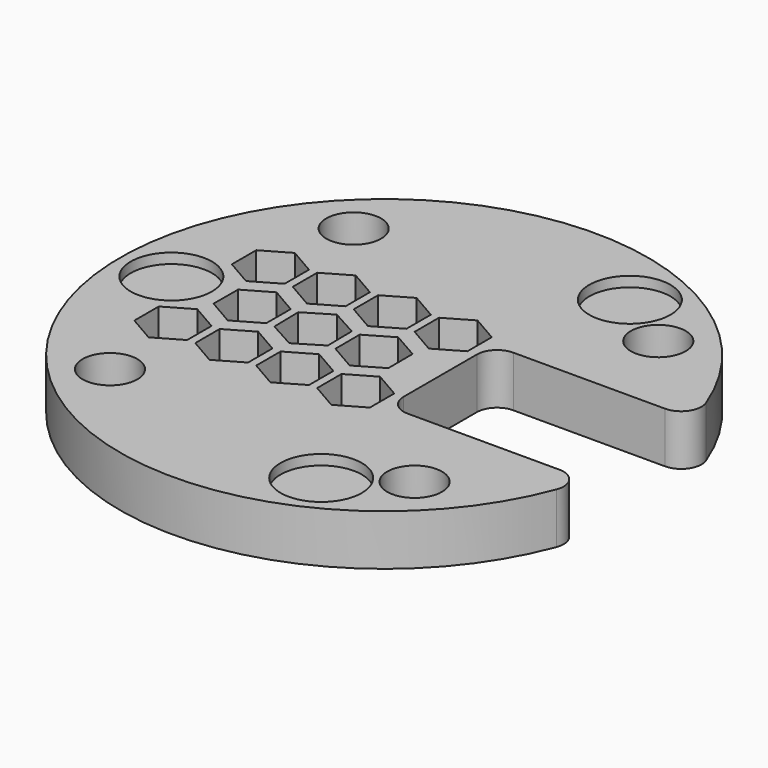
from build123d import *

# Parameters (mm, degrees)
SKETCH_R        = 25.999973
PAD_DEPTH       = 5
SKETCH001_R     = 1.5
POCKET_DEPTH    = 5.001
SKETCH002_W     = 20.5
SKETCH002_H     = 13.007144
POCKET001_DEPTH = 5
FILLET_R        = 2
POCKET002_DEPTH = 5
SKETCH004_R     = 4.000249
SKETCH004_R_2   = 4
POCKET003_DEPTH = 1
SKETCH005_R     = 2.7
POCKET004_DEPTH = 3


with BuildPart() as part:
    # Sketch → Pad (new body)
    with BuildSketch(Plane.XY):
        Circle(SKETCH_R)
    extrude(amount=PAD_DEPTH)

    # Sketch001 (on Face3 of Pad) → Pocket (cut, through all)
    with BuildSketch(Plane.XY.offset(5)):
        with Locations((-15, 15)):
            Circle(SKETCH001_R)
        with Locations((15, 15)):
            Circle(SKETCH001_R)
        with Locations((15, -15)):
            Circle(SKETCH001_R)
        with Locations((-15, -15)):
            Circle(SKETCH001_R)
    extrude(amount=-POCKET_DEPTH, mode=Mode.SUBTRACT)

    # Sketch002 (on Face3 of Pocket) → Pocket001 (cut)
    with BuildSketch(Plane.XY.offset(5)):
        with Locations((15.75, 0.027864)):
            Rectangle(SKETCH002_W, SKETCH002_H)
    extrude(amount=-POCKET001_DEPTH, mode=Mode.SUBTRACT)

    # Fillet
    fillet_edges = [part.edges().sort_by_distance(p)[0] for p in [
        (5.5, 6.531436, 2.5),
        (5.5, -6.475708, 2.5),
        (25.180624, -6.475708, 2.5),
        (25.166226, 6.531436, 2.5),
    ]]
    fillet(fillet_edges, radius=FILLET_R)

    # Sketch003 (on Face5 of Fillet) → Pocket002 (cut)
    with BuildSketch(Plane.XY.offset(5)):
        Polygon((-16, 9), (-18.598076, 7.5), (-18.598076, 4.5), (-16, 3), (-13.401924, 4.5), (-13.401924, 7.5), align=None)
        Polygon((-10, 9), (-12.598076, 7.5), (-12.598076, 4.5), (-10, 3), (-7.401924, 4.5), (-7.401924, 7.5), align=None)
        Polygon((-4, 9), (-6.598076, 7.5), (-6.598076, 4.5), (-4, 3), (-1.401924, 4.5), (-1.401924, 7.5), align=None)
        Polygon((2, 9), (-0.598076, 7.5), (-0.598076, 4.5), (2, 3), (4.598076, 4.5), (4.598076, 7.5), align=None)
        Polygon((-12.990973, 3), (-15.593563, 1.507818), (-15.60259, -1.492182), (-13.009027, -3), (-10.406437, -1.507818), (-10.39741, 1.492182), align=None)
        Polygon((-7.054188, 3), (-9.62517, 1.453072), (-9.570982, -1.546928), (-6.945812, -3), (-4.37483, -1.453072), (-4.429018, 1.546928), align=None)
        Polygon((-1.012141, 3), (-3.604147, 1.489486), (-3.592006, -1.510514), (-0.987859, -3), (1.604147, -1.489486), (1.592006, 1.510514), align=None)
        Polygon((-16, -3), (-18.598076, -4.5), (-18.598076, -7.5), (-16, -9), (-13.401924, -7.5), (-13.401924, -4.5), align=None)
        Polygon((-10, -3), (-12.598076, -4.5), (-12.598076, -7.5), (-10, -9), (-7.401924, -7.5), (-7.401924, -4.5), align=None)
        Polygon((-4, -3), (-6.598076, -4.5), (-6.598076, -7.5), (-4, -9), (-1.401924, -7.5), (-1.401924, -4.5), align=None)
        Polygon((2, -3), (-0.598076, -4.5), (-0.598076, -7.5), (2, -9), (4.598076, -7.5), (4.598076, -4.5), align=None)
    extrude(amount=-POCKET002_DEPTH, mode=Mode.SUBTRACT)

    # Sketch004 (on Face5 of Pocket002) → Pocket003 (cut)
    with BuildSketch(Plane.XY.offset(5)):
        with Locations((-20.955366, 0)):
            Circle(SKETCH004_R)
        with Locations((9, 19)):
            Circle(SKETCH004_R_2)
        with Locations((9, -19)):
            Circle(SKETCH004_R_2)
    extrude(amount=-POCKET003_DEPTH, mode=Mode.SUBTRACT)

    # Sketch005 (on Face5 of Pocket003) → Pocket004 (cut)
    with BuildSketch(Plane.XY.offset(5)):
        with Locations((-15, 15)):
            Circle(SKETCH005_R)
        with Locations((15, 15)):
            Circle(SKETCH005_R)
        with Locations((15, -15)):
            Circle(SKETCH005_R)
        with Locations((-15, -15)):
            Circle(SKETCH005_R)
    extrude(amount=-POCKET004_DEPTH, mode=Mode.SUBTRACT)


solid = part.part
